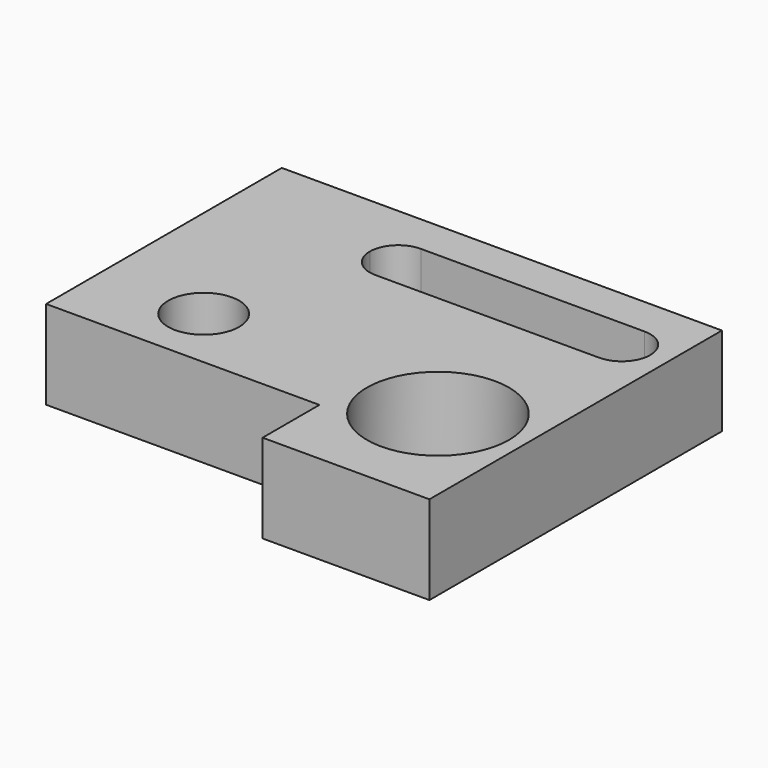
from build123d import *

# Parameters (mm, degrees)
F0_R     = 10
F0_R_2   = 20
F1_DEPTH = 25


with BuildPart() as f1:
    # F0 (on Top) → F1 (new body)
    with BuildSketch(Plane.XY):
        Polygon((72.579548, 39.166598), (-51.420452, 39.166598), (-51.420452, -25.833402), (-51.420452, -43.833402), (-21.420452, -43.833402), (25.579548, -43.833402), (25.579548, -63.833402), (49.079548, -63.833402), (72.579548, -63.833402), (72.579548, 25.166598), align=None)
        with Locations((-21.420452, -25.833402)):
            Circle(F0_R, mode=Mode.SUBTRACT)
        with Locations((48.579548, -30.833402)):
            Circle(F0_R_2, mode=Mode.SUBTRACT)
        with BuildLine():
            Line((-3.420452, 28.166598), (59.579548, 28.166598))
            ThreePointArc((59.579548, 28.166598), (65.236402, 25.823453), (67.579548, 20.166598))
            ThreePointArc((67.579548, 20.166598), (65.236402, 14.509744), (59.579548, 12.166598))
            Line((59.579548, 12.166598), (-3.420452, 12.166598))
            ThreePointArc((-3.420452, 12.166598), (-9.077307, 14.509744), (-11.420452, 20.166598))
            ThreePointArc((-11.420452, 20.166598), (-9.077307, 25.823453), (-3.420452, 28.166598))
        make_face(mode=Mode.SUBTRACT)
    extrude(amount=F1_DEPTH)


solid = f1.part
